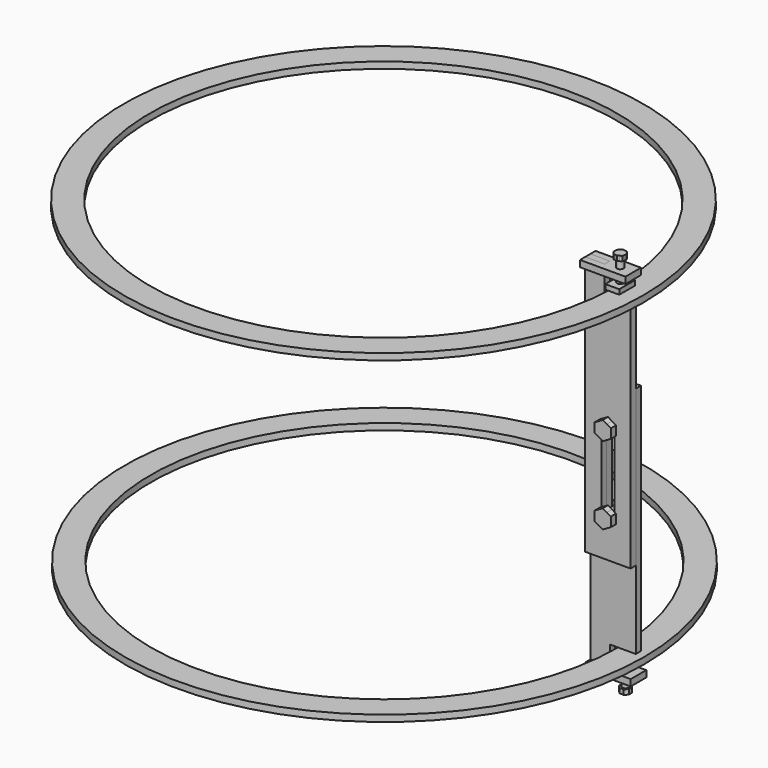
from build123d import *

# Parameters (mm, degrees)
F1_DEPTH  = 12.7
F3_DEPTH  = 12.7
F4_R      = 6.35
F5_DEPTH  = 25.4
F6_W      = 27.2638276219
F6_H      = 38.1437409669
F6_R      = 6.35
F7_DEPTH  = 9.525
F9_DEPTH  = 9.525
F11_DEPTH = 12.7
F12_W     = 88.9085167986
F12_H     = 38.1
F13_DEPTH = 12.7
F14_R     = 6.35
F15_DEPTH = 25.4
F16_W     = 27.3337326944
F16_H     = 38.918892853
F17_DEPTH = 9.525
F19_DEPTH = 9.525
F20_R     = 508
F21_DEPTH = 12.7
F22_R     = 508
F22_R_2   = 457.2
F23_DEPTH = 12.7
F24_R     = 9.525
F25_DEPTH = 25.4
F26_DEPTH = 50.8
F28_DEPTH = 12.7
F30_DEPTH = 12.7


with BuildPart() as f1:
    # F0 (on Front) → F1 (new body)
    with BuildSketch(Plane.XZ):
        Polygon((0, 355.6), (0, 0), (0, -152.4), (88.9, -152.4), (88.9, 304.8), (38.1, 304.8), (38.1, 355.6), align=None)
        with BuildLine():
            Line((31.75, -76.2), (31.75, 76.2))
            ThreePointArc((31.75, 76.2), (44.45, 88.9), (57.15, 76.2))
            Line((57.15, 76.2), (57.15, -76.2))
            ThreePointArc((57.15, -76.2), (44.45, -88.9), (31.75, -76.2))
        make_face(mode=Mode.SUBTRACT)
    extrude(amount=F1_DEPTH)


with BuildPart() as f3:
    # F2 (on face) → F3 (new body)
    with BuildSketch(Plane.XY.offset(355.6)):
        Polygon((88.9, 12.7), (0, 12.7), (0, 0), (38.1, 0), (38.1, -12.7), (0, -12.7), (0, -25.4), (88.9, -25.4), align=None)
    extrude(amount=-F3_DEPTH)


with BuildPart() as f5:
    # F4 (on face) → F5 (new body, symmetric)
    with BuildSketch(Plane.XY.offset(355.6)):
        with Locations((63.5, -6.35)):
            Circle(F4_R)
    extrude(amount=F5_DEPTH, both=True)

    # F8 (on face) → F9 (join)
    with BuildSketch(Plane.XY.offset(381)):
        with BuildLine():
            ThreePointArc((73.4387550271, -8.4587314936), (73.6045373737, -7.4101530373), (73.66, -6.35))
            ThreePointArc((73.66, -6.35), (73.2410783595, -3.4626149558), (72.0188597651, -0.8133378013))
            ThreePointArc((72.0188597651, -0.8133378013), (69.251611256, 2.0252353973), (65.6087320573, 3.5887549074))
            ThreePointArc((65.6087320573, 3.5887549074), (61.6448174982, 3.6391890504), (57.9633376644, 2.1688596761))
            ThreePointArc((57.9633376644, 2.1688596761), (55.1247645659, -0.5983887976), (53.5612450995, -4.2412679101))
            ThreePointArc((53.5612450995, -4.2412679101), (53.5108109316, -8.2051824052), (54.9811402349, -11.8866621987))
            ThreePointArc((54.9811402349, -11.8866621987), (57.7483889763, -14.7252355568), (61.391268494, -16.2887550244))
            ThreePointArc((61.391268494, -16.2887550244), (65.3551831041, -16.3391889386), (69.0366628902, -14.8688593156))
            ThreePointArc((69.0366628902, -14.8688593156), (71.8752357939, -12.1016106785), (73.4387550271, -8.4587314936))
        make_face()
        with BuildLine():
            ThreePointArc((72.0188597651, -0.8133378013), (73.2410783595, -3.4626149558), (73.66, -6.35))
            ThreePointArc((73.66, -6.35), (73.6045373737, -7.4101530373), (73.4387550271, -8.4587314936))
            Line((73.4387550271, -8.4587314936), (74.3122203154, -4.3419649296))
            Line((74.3122203154, -4.3419649296), (72.0188597651, -0.8133378013))
        make_face()
        with BuildLine():
            ThreePointArc((65.6087320573, 3.5887549074), (69.251611256, 2.0252353973), (72.0188597651, -0.8133378013))
            Line((72.0188597651, -0.8133378013), (69.7254990895, 2.7152895198))
            Line((69.7254990895, 2.7152895198), (65.6087320573, 3.5887549074))
        make_face()
        with BuildLine():
            Line((72.5652895198, -12.5754990895), (73.4387550271, -8.4587314936))
            ThreePointArc((73.4387550271, -8.4587314936), (71.8752357939, -12.1016106785), (69.0366628902, -14.8688593156))
            Line((69.0366628902, -14.8688593156), (72.5652895198, -12.5754990895))
        make_face()
        with BuildLine():
            ThreePointArc((57.9633376644, 2.1688596761), (61.6448174982, 3.6391890504), (65.6087320573, 3.5887549074))
            Line((65.6087320573, 3.5887549074), (61.4919649296, 4.4622203154))
            Line((61.4919649296, 4.4622203154), (57.9633376644, 2.1688596761))
        make_face()
        with BuildLine():
            Line((65.5080350704, -17.1622203154), (69.0366628902, -14.8688593156))
            ThreePointArc((69.0366628902, -14.8688593156), (65.3551831041, -16.3391889386), (61.391268494, -16.2887550244))
            Line((61.391268494, -16.2887550244), (65.5080350704, -17.1622203154))
        make_face()
        with BuildLine():
            ThreePointArc((53.5612450995, -4.2412679101), (55.1247645659, -0.5983887976), (57.9633376644, 2.1688596761))
            Line((57.9633376644, 2.1688596761), (54.4347104802, -0.1245009105))
            Line((54.4347104802, -0.1245009105), (53.5612450995, -4.2412679101))
        make_face()
        with BuildLine():
            Line((57.2745009105, -15.4152895198), (61.391268494, -16.2887550244))
            ThreePointArc((61.391268494, -16.2887550244), (57.7483889763, -14.7252355568), (54.9811402349, -11.8866621987))
            Line((54.9811402349, -11.8866621987), (57.2745009105, -15.4152895198))
        make_face()
        with BuildLine():
            ThreePointArc((54.9811402349, -11.8866621987), (53.5108109316, -8.2051824052), (53.5612450995, -4.2412679101))
            Line((53.5612450995, -4.2412679101), (52.6877796846, -8.3580350704))
            Line((52.6877796846, -8.3580350704), (54.9811402349, -11.8866621987))
        make_face()
    extrude(amount=-F9_DEPTH)


with BuildPart() as f7:
    # F6 (on face) → F7 (new body)
    with BuildSketch(Plane(origin=(0, 0, 330.2), x_dir=(1, 0, 0), z_dir=(0, 0, -1))):
        with Locations((63.3604861796, 6.5269684419)):
            Rectangle(F6_W, F6_H)
        with Locations((63.5, 6.35)):
            Circle(F6_R, mode=Mode.SUBTRACT)
    extrude(amount=F7_DEPTH)


with BuildPart() as f11:
    # F10 (on Front) → F11 (new body)
    with BuildSketch(Plane.XZ):
        Polygon((88.9, 152.4), (0, 152.4), (0, -355.6), (38.1, -355.6), (38.1, -304.8), (88.9, -304.8), align=None)
        with BuildLine():
            ThreePointArc((31.75, 76.2), (44.45, 88.9), (57.15, 76.2))
            Line((57.15, 76.2), (57.15, -76.2))
            ThreePointArc((57.15, -76.2), (44.45, -88.9), (31.75, -76.2))
            Line((31.75, -76.2), (31.75, 76.2))
        make_face(mode=Mode.SUBTRACT)
    extrude(amount=-F11_DEPTH)


with BuildPart() as f13:
    # F12 (on face) → F13 (new body)
    with BuildSketch(Plane(origin=(0, 0, -355.6), x_dir=(1, 0, 0), z_dir=(0, 0, -1))):
        with Locations((44.4868933555, -6.4945016056)):
            Rectangle(F12_W, F12_H)
    extrude(amount=-F13_DEPTH)


with BuildPart() as f15:
    # F14 (on face) → F15 (new body, symmetric)
    with BuildSketch(Plane(origin=(0, 0, -355.6), x_dir=(1, 0, 0), z_dir=(0, 0, -1))):
        with Locations((63.5411517548, -6.4945016056)):
            Circle(F14_R)
    extrude(amount=F15_DEPTH, both=True)

    # F18 (on face) → F19 (join)
    with BuildSketch(Plane(origin=(0, 0, -381), x_dir=(1, 0, 0), z_dir=(0, 0, -1))):
        with BuildLine():
            ThreePointArc((70.2763438456, -13.2296936964), (72.341104302, -10.1395612989), (73.0661517548, -6.4945016056))
            ThreePointArc((73.0661517548, -6.4945016056), (72.341104292, -2.8494418883), (70.2763438088, 0.240690522))
            ThreePointArc((70.2763438088, 0.240690522), (67.1862114046, 2.3054509596), (63.5411517127, 3.0304983944))
            ThreePointArc((63.5411517127, 3.0304983944), (59.8960920718, 2.3054509458), (56.8059597095, 0.2406905307))
            ThreePointArc((56.8059597095, 0.2406905307), (54.74119922, -2.8494418826), (54.0161517548, -6.4945016056))
            ThreePointArc((54.0161517548, -6.4945016056), (54.7411992046, -10.1395612915), (56.8059596526, -13.2296936851))
            ThreePointArc((56.8059596526, -13.2296936851), (59.8960920541, -15.2944541497), (63.5411517548, -16.0195016056))
            ThreePointArc((63.5411517548, -16.0195016056), (67.1862114481, -15.2944541528), (70.2763438456, -13.2296936964))
        make_face()
        with BuildLine():
            Line((73.0661517548, -10.4398857872), (73.0661517548, -6.4945016056))
            ThreePointArc((73.0661517548, -6.4945016056), (72.341104302, -10.1395612989), (70.2763438456, -13.2296936964))
            Line((70.2763438456, -13.2296936964), (73.0661517548, -10.4398857872))
        make_face()
        with BuildLine():
            ThreePointArc((70.2763438088, 0.240690522), (72.341104292, -2.8494418883), (73.0661517548, -6.4945016056))
            Line((73.0661517548, -6.4945016056), (73.0661517548, -2.549117424))
            Line((73.0661517548, -2.549117424), (70.2763438088, 0.240690522))
        make_face()
        with BuildLine():
            ThreePointArc((63.5411517127, 3.0304983944), (67.1862114046, 2.3054509596), (70.2763438088, 0.240690522))
            Line((70.2763438088, 0.240690522), (67.4865359364, 3.0304983944))
            Line((67.4865359364, 3.0304983944), (63.5411517127, 3.0304983944))
        make_face()
        with BuildLine():
            Line((67.4865359364, -16.0195016056), (70.2763438456, -13.2296936964))
            ThreePointArc((70.2763438456, -13.2296936964), (67.1862114481, -15.2944541528), (63.5411517548, -16.0195016056))
            Line((63.5411517548, -16.0195016056), (67.4865359364, -16.0195016056))
        make_face()
        with BuildLine():
            ThreePointArc((56.8059597095, 0.2406905307), (59.8960920718, 2.3054509458), (63.5411517127, 3.0304983944))
            Line((63.5411517127, 3.0304983944), (59.5957675732, 3.0304983944))
            Line((59.5957675732, 3.0304983944), (56.8059597095, 0.2406905307))
        make_face()
        with BuildLine():
            Line((59.5957675732, -16.0195016056), (63.5411517548, -16.0195016056))
            ThreePointArc((63.5411517548, -16.0195016056), (59.8960920541, -15.2944541497), (56.8059596526, -13.2296936851))
            Line((56.8059596526, -13.2296936851), (59.5957675732, -16.0195016056))
        make_face()
        with BuildLine():
            ThreePointArc((54.0161517548, -6.4945016056), (54.74119922, -2.8494418826), (56.8059597095, 0.2406905307))
            Line((56.8059597095, 0.2406905307), (54.0161517548, -2.549117424))
            Line((54.0161517548, -2.549117424), (54.0161517548, -6.4945016056))
        make_face()
        with BuildLine():
            Line((54.0161517548, -10.4398857872), (56.8059596526, -13.2296936851))
            ThreePointArc((56.8059596526, -13.2296936851), (54.7411992046, -10.1395612915), (54.0161517548, -6.4945016056))
            Line((54.0161517548, -6.4945016056), (54.0161517548, -10.4398857872))
        make_face()
    extrude(amount=-F19_DEPTH)


with BuildPart() as f17:
    # F16 (on face) → F17 (new body)
    with BuildSketch(Plane.XY.offset(-330.2)):
        with Locations((63.3912775666, 6.5166507848)):
            Rectangle(F16_W, F16_H)
    extrude(amount=F17_DEPTH)


with BuildPart() as f21:
    # F20 (on face) → F21 (new body)
    with BuildSketch(Plane.XY.offset(304.8)):
        with Locations((-404.9214422703, 0)):
            Circle(F20_R)
        with BuildLine():
            ThreePointArc((52.1021348021, -12.7), (-862.0773344107, 6.3506126683), (52.2785577297, 0))
            Line((52.2785577297, 0), (88.9, 0))
            Line((88.9, 0), (88.9, -12.7))
            Line((88.9, -12.7), (52.1021348021, -12.7))
        make_face(mode=Mode.SUBTRACT)
        with BuildLine():
            Line((88.9, 0), (52.2785577297, 0))
            ThreePointArc((52.2785577297, 0), (52.2344498702, -6.3506126683), (52.1021348021, -12.7))
            Line((52.1021348021, -12.7), (88.9, -12.7))
            Line((88.9, -12.7), (88.9, 0))
        make_face()
    extrude(amount=F21_DEPTH)


with BuildPart() as f23:
    # F22 (on face) → F23 (new body)
    with BuildSketch(Plane(origin=(0, 0, -304.8), x_dir=(1, 0, 0), z_dir=(0, 0, -1))):
        with Locations((-402.9677194172, 0)):
            Circle(F22_R)
        with Locations((-402.9677194172, 0)):
            Circle(F22_R_2, mode=Mode.SUBTRACT)
    extrude(amount=F23_DEPTH)


with BuildPart() as f25:
    # F24 (on Front) → F25 (new body)
    with BuildSketch(Plane.XZ):
        with Locations((44.6221977472, 76.0483369231)):
            Circle(F24_R)
    extrude(amount=F25_DEPTH)


with BuildPart() as f25b:
    # F24 (on Front) → F25, piece 2 (new body)
    with BuildSketch(Plane.XZ):
        with Locations((44.3531125784, -76.2537792325)):
            Circle(F24_R)
    extrude(amount=F25_DEPTH)


with BuildPart() as f26:
    # F24 (on Front) → F26 (new body)
    with BuildSketch(Plane.XZ):
        with Locations((44.6221977472, 76.0483369231)):
            Circle(F24_R)
    extrude(amount=-F26_DEPTH)


with BuildPart() as f26b:
    # F24 (on Front) → F26, piece 2 (new body)
    with BuildSketch(Plane.XZ):
        with Locations((44.3531125784, -76.2537792325)):
            Circle(F24_R)
    extrude(amount=-F26_DEPTH)


with BuildPart() as f28:
    # F27 (on face) → F28 (new body)
    with BuildSketch(Plane.XZ.offset(25.4)):
        with BuildLine():
            ThreePointArc((52.5596980605, 62.3001838189), (58.3703511227, 68.1108370798), (60.4971977472, 76.0483369231))
            ThreePointArc((60.4971977472, 76.0483369231), (58.3703509361, 83.9858370897), (52.5596974141, 89.7964904005))
            ThreePointArc((52.5596974141, 89.7964904005), (44.622197374, 91.9233369231), (36.6846974339, 89.7964900273))
            ThreePointArc((36.6846974339, 89.7964900273), (30.8740443717, 83.9858367665), (28.7471977472, 76.0483369231))
            ThreePointArc((28.7471977472, 76.0483369231), (30.8740443989, 68.1108370326), (36.6846975282, 62.3001837645))
            ThreePointArc((36.6846975282, 62.3001837645), (44.6221978017, 60.1733369231), (52.5596980605, 62.3001838189))
        make_face()
        with BuildLine():
            Line((60.4971977472, 66.8829013997), (60.4971977472, 76.0483369231))
            ThreePointArc((60.4971977472, 76.0483369231), (58.3703511227, 68.1108370798), (52.5596980605, 62.3001838189))
            Line((52.5596980605, 62.3001838189), (60.4971977472, 66.8829013997))
        make_face()
        with BuildLine():
            ThreePointArc((52.5596974141, 89.7964904005), (58.3703509361, 83.9858370897), (60.4971977472, 76.0483369231))
            Line((60.4971977472, 76.0483369231), (60.4971977472, 85.2137724465))
            Line((60.4971977472, 85.2137724465), (52.5596974141, 89.7964904005))
        make_face()
        with BuildLine():
            ThreePointArc((36.6846974339, 89.7964900273), (44.622197374, 91.9233369231), (52.5596974141, 89.7964904005))
            Line((52.5596974141, 89.7964904005), (44.6221977472, 94.3792079699))
            Line((44.6221977472, 94.3792079699), (36.6846974339, 89.7964900273))
        make_face()
        with BuildLine():
            Line((44.6221977472, 57.7174658764), (52.5596980605, 62.3001838189))
            ThreePointArc((52.5596980605, 62.3001838189), (44.6221978017, 60.1733369231), (36.6846975282, 62.3001837645))
            Line((36.6846975282, 62.3001837645), (44.6221977472, 57.7174658764))
        make_face()
        with BuildLine():
            ThreePointArc((28.7471977472, 76.0483369231), (30.8740443717, 83.9858367665), (36.6846974339, 89.7964900273))
            Line((36.6846974339, 89.7964900273), (28.7471977472, 85.2137724465))
            Line((28.7471977472, 85.2137724465), (28.7471977472, 76.0483369231))
        make_face()
        with BuildLine():
            Line((28.7471977472, 66.8829013997), (36.6846975282, 62.3001837645))
            ThreePointArc((36.6846975282, 62.3001837645), (30.8740443989, 68.1108370326), (28.7471977472, 76.0483369231))
            Line((28.7471977472, 76.0483369231), (28.7471977472, 66.8829013997))
        make_face()
    extrude(amount=-F28_DEPTH)


with BuildPart() as f28b:
    # F27 (on face) → F28, piece 2 (new body)
    with BuildSketch(Plane.XZ.offset(25.4)):
        with BuildLine():
            ThreePointArc((52.393740103, -89.8757046002), (58.2043931652, -84.0650513394), (60.3312397897, -76.127551496))
            ThreePointArc((60.3312397897, -76.127551496), (58.2043929786, -68.1900513295), (52.3937394566, -62.3793980186))
            ThreePointArc((52.3937394566, -62.3793980186), (44.4562394165, -60.252551496), (36.5187394764, -62.3793983918))
            ThreePointArc((36.5187394764, -62.3793983918), (30.7080864142, -68.1900516527), (28.5812397897, -76.127551496))
            ThreePointArc((28.5812397897, -76.127551496), (30.7080865672, -84.0650516043), (36.5187400063, -89.8757049061))
            ThreePointArc((36.5187400063, -89.8757049061), (44.4562400956, -92.002551496), (52.393740103, -89.8757046002))
        make_face()
        with BuildLine():
            Line((60.3312397897, -85.2929870194), (60.3312397897, -76.127551496))
            ThreePointArc((60.3312397897, -76.127551496), (58.2043931652, -84.0650513394), (52.393740103, -89.8757046002))
            Line((52.393740103, -89.8757046002), (60.3312397897, -85.2929870194))
        make_face()
        with BuildLine():
            ThreePointArc((52.3937394566, -62.3793980186), (58.2043929786, -68.1900513295), (60.3312397897, -76.127551496))
            Line((60.3312397897, -76.127551496), (60.3312397897, -66.9621159726))
            Line((60.3312397897, -66.9621159726), (52.3937394566, -62.3793980186))
        make_face()
        with BuildLine():
            ThreePointArc((36.5187394764, -62.3793983918), (44.4562394165, -60.252551496), (52.3937394566, -62.3793980186))
            Line((52.3937394566, -62.3793980186), (44.4562397897, -57.7966804493))
            Line((44.4562397897, -57.7966804493), (36.5187394764, -62.3793983918))
        make_face()
        with BuildLine():
            Line((44.4562397897, -94.4584225428), (52.393740103, -89.8757046002))
            ThreePointArc((52.393740103, -89.8757046002), (44.4562400956, -92.002551496), (36.5187400063, -89.8757049061))
            Line((36.5187400063, -89.8757049061), (44.4562397897, -94.4584225428))
        make_face()
        with BuildLine():
            ThreePointArc((28.5812397897, -76.127551496), (30.7080864142, -68.1900516527), (36.5187394764, -62.3793983918))
            Line((36.5187394764, -62.3793983918), (28.5812397897, -66.9621159726))
            Line((28.5812397897, -66.9621159726), (28.5812397897, -76.127551496))
        make_face()
        with BuildLine():
            Line((28.5812397897, -85.2929870194), (36.5187400063, -89.8757049061))
            ThreePointArc((36.5187400063, -89.8757049061), (30.7080865672, -84.0650516043), (28.5812397897, -76.127551496))
            Line((28.5812397897, -76.127551496), (28.5812397897, -85.2929870194))
        make_face()
    extrude(amount=-F28_DEPTH)


with BuildPart() as f30:
    # F29 (on face) → F30 (new body)
    with BuildSketch(Plane(origin=(0, 12.7, 0), x_dir=(-1, 0, 0), z_dir=(0, 1, 0))):
        with BuildLine():
            ThreePointArc((-36.6846980803, 62.3001834457), (-30.8740445583, 68.1108367566), (-28.7471977472, 76.0483369231))
            ThreePointArc((-28.7471977472, 76.0483369231), (-30.8740443717, 83.9858367665), (-36.6846974339, 89.7964900273))
            ThreePointArc((-36.6846974339, 89.7964900273), (-44.622197374, 91.9233369231), (-52.5596974141, 89.7964904005))
            ThreePointArc((-52.5596974141, 89.7964904005), (-58.3703509361, 83.9858370897), (-60.4971977472, 76.0483369231))
            ThreePointArc((-60.4971977472, 76.0483369231), (-58.3703509361, 68.1108367566), (-52.5596974141, 62.3001834457))
            ThreePointArc((-52.5596974141, 62.3001834457), (-44.6221977472, 60.1733369231), (-36.6846980803, 62.3001834457))
        make_face()
        with BuildLine():
            Line((-28.7471977472, 66.8829013997), (-28.7471977472, 76.0483369231))
            ThreePointArc((-28.7471977472, 76.0483369231), (-30.8740445583, 68.1108367566), (-36.6846980803, 62.3001834457))
            Line((-36.6846980803, 62.3001834457), (-28.7471977472, 66.8829013997))
        make_face()
        with BuildLine():
            ThreePointArc((-36.6846974339, 89.7964900273), (-30.8740443717, 83.9858367665), (-28.7471977472, 76.0483369231))
            Line((-28.7471977472, 76.0483369231), (-28.7471977472, 85.2137724465))
            Line((-28.7471977472, 85.2137724465), (-36.6846974339, 89.7964900273))
        make_face()
        with BuildLine():
            ThreePointArc((-52.5596974141, 89.7964904005), (-44.622197374, 91.9233369231), (-36.6846974339, 89.7964900273))
            Line((-36.6846974339, 89.7964900273), (-44.6221977472, 94.3792079699))
            Line((-44.6221977472, 94.3792079699), (-52.5596974141, 89.7964904005))
        make_face()
        with BuildLine():
            Line((-44.6221977472, 57.7174658764), (-36.6846980803, 62.3001834457))
            ThreePointArc((-36.6846980803, 62.3001834457), (-44.6221977472, 60.1733369231), (-52.5596974141, 62.3001834457))
            Line((-52.5596974141, 62.3001834457), (-44.6221977472, 57.7174658764))
        make_face()
        with BuildLine():
            ThreePointArc((-60.4971977472, 76.0483369231), (-58.3703509361, 83.9858370897), (-52.5596974141, 89.7964904005))
            Line((-52.5596974141, 89.7964904005), (-60.4971977472, 85.2137724465))
            Line((-60.4971977472, 85.2137724465), (-60.4971977472, 76.0483369231))
        make_face()
        with BuildLine():
            Line((-60.4971977472, 66.8829013997), (-52.5596974141, 62.3001834457))
            ThreePointArc((-52.5596974141, 62.3001834457), (-58.3703509361, 68.1108367566), (-60.4971977472, 76.0483369231))
            Line((-60.4971977472, 76.0483369231), (-60.4971977472, 66.8829013997))
        make_face()
    extrude(amount=F30_DEPTH)


with BuildPart() as f30b:
    # F29 (on face) → F30, piece 2 (new body)
    with BuildSketch(Plane(origin=(0, 12.7, 0), x_dir=(-1, 0, 0), z_dir=(0, 1, 0))):
        with BuildLine():
            ThreePointArc((-36.5187397233, -89.8757047428), (-30.7080864855, -84.0650514628), (-28.5812397897, -76.127551496))
            ThreePointArc((-28.5812397897, -76.127551496), (-30.7080864142, -68.1900516527), (-36.5187394764, -62.3793983918))
            ThreePointArc((-36.5187394764, -62.3793983918), (-44.4562397897, -60.252551496), (-52.393740103, -62.3793983918))
            ThreePointArc((-52.393740103, -62.3793983918), (-58.2043931652, -68.1900516527), (-60.3312397897, -76.127551496))
            ThreePointArc((-60.3312397897, -76.127551496), (-58.2043931652, -84.0650513394), (-52.393740103, -89.8757046002))
            ThreePointArc((-52.393740103, -89.8757046002), (-44.4562399323, -92.002551496), (-36.5187397233, -89.8757047428))
        make_face()
        with BuildLine():
            Line((-28.5812397897, -85.2929870194), (-28.5812397897, -76.127551496))
            ThreePointArc((-28.5812397897, -76.127551496), (-30.7080864855, -84.0650514628), (-36.5187397233, -89.8757047428))
            Line((-36.5187397233, -89.8757047428), (-28.5812397897, -85.2929870194))
        make_face()
        with BuildLine():
            ThreePointArc((-36.5187394764, -62.3793983918), (-30.7080864142, -68.1900516527), (-28.5812397897, -76.127551496))
            Line((-28.5812397897, -76.127551496), (-28.5812397897, -66.9621159726))
            Line((-28.5812397897, -66.9621159726), (-36.5187394764, -62.3793983918))
        make_face()
        with BuildLine():
            ThreePointArc((-52.393740103, -62.3793983918), (-44.4562397897, -60.252551496), (-36.5187394764, -62.3793983918))
            Line((-36.5187394764, -62.3793983918), (-44.4562397897, -57.7966804493))
            Line((-44.4562397897, -57.7966804493), (-52.393740103, -62.3793983918))
        make_face()
        with BuildLine():
            Line((-44.4562397897, -94.4584225428), (-36.5187397233, -89.8757047428))
            ThreePointArc((-36.5187397233, -89.8757047428), (-44.4562399323, -92.002551496), (-52.393740103, -89.8757046002))
            Line((-52.393740103, -89.8757046002), (-44.4562397897, -94.4584225428))
        make_face()
        with BuildLine():
            ThreePointArc((-60.3312397897, -76.127551496), (-58.2043931652, -68.1900516527), (-52.393740103, -62.3793983918))
            Line((-52.393740103, -62.3793983918), (-60.3312397897, -66.9621159726))
            Line((-60.3312397897, -66.9621159726), (-60.3312397897, -76.127551496))
        make_face()
        with BuildLine():
            Line((-60.3312397897, -85.2929870194), (-52.393740103, -89.8757046002))
            ThreePointArc((-52.393740103, -89.8757046002), (-58.2043931652, -84.0650513394), (-60.3312397897, -76.127551496))
            Line((-60.3312397897, -76.127551496), (-60.3312397897, -85.2929870194))
        make_face()
    extrude(amount=F30_DEPTH)


solid = Compound([f1.part, f3.part, f5.part, f7.part, f11.part, f13.part, f15.part, f17.part, f21.part, f23.part, f25.part, f25b.part, f26.part, f26b.part, f28.part, f28b.part, f30.part, f30b.part])
